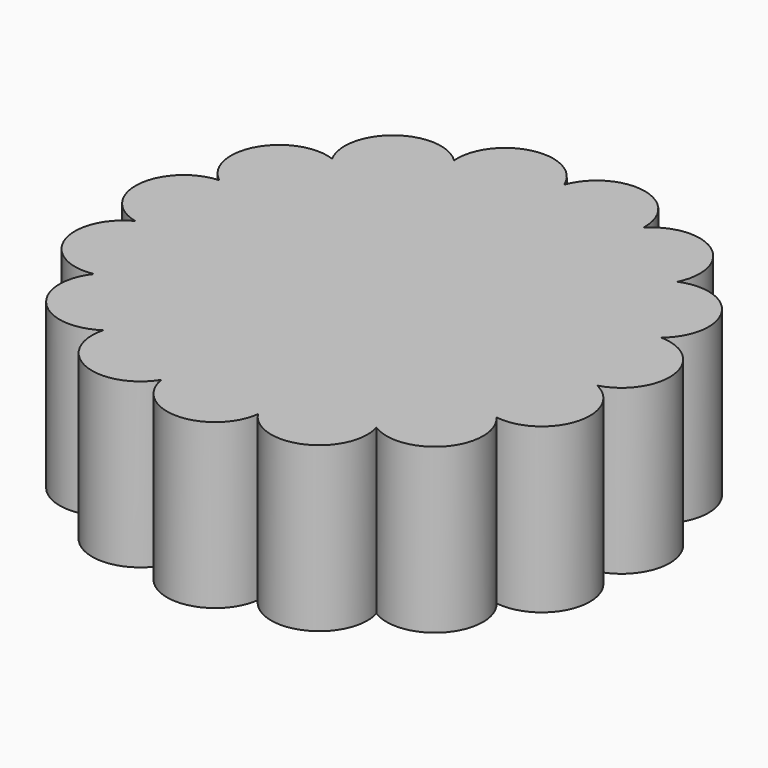
from build123d import *

# Parameters (mm, degrees)
F1_DEPTH = 12
F2_DEPTH = 6
F4_DEPTH = 6
F5_R     = 22.5356386782
F6_DEPTH = 5
F8_DEPTH = 5
F9_DEPTH = 12


with BuildPart() as f1:
    # F0 (on Top) → F1 (new body)
    with BuildSketch(Plane.XY):
        Polygon((-6.8684225896, -21.4634522332), (15.1536835921, -16.6799545631), (22.0221061816, 4.7834976701), (6.8684225896, 21.4634522332), (-15.1536835921, 16.6799545631), (-22.0221061816, -4.7834976701), align=None)
        Polygon((17.1437614944, 2.6631325835), (10.8782212182, -13.5153666788), (-6.2655402762, -16.1784992623), (-17.1437614944, -2.6631325835), (-10.8782212182, 13.5153666788), (6.2655402762, 16.1784992623), align=None, mode=Mode.SUBTRACT)
    extrude(amount=F1_DEPTH)

    # F2 (add): a face of the model
    f2_faces = [f1.faces().sort_by_distance(p)[0] for p in [
        (4.0120820931, -18.4706890138, 12),
    ]]
    extrude(f2_faces, amount=-F2_DEPTH)

    # F3 (on face) → F4 (join)
    with BuildSketch(Plane.XY.offset(12)):
        Polygon((-6.8684225896, -21.4634522332), (15.1536835921, -16.6799545631), (22.0221061816, 4.7834976701), (6.8684225896, 21.4634522332), (-15.1536835921, 16.6799545631), (-22.0221061816, -4.7834976701), align=None)
    extrude(amount=-F4_DEPTH)

    # F5 (on face) → F6 (join)
    with BuildSketch(Plane.XY.offset(12)):
        Circle(F5_R)
    extrude(amount=F6_DEPTH)

    # F7 (on face) → F8 (join, through all)
    with BuildSketch(Plane.XY.offset(17)):
        with BuildLine():
            ThreePointArc((-15.3228461638, 13.3118642514), (-10.7195158187, 13.8841980042), (-8.5676941997, 17.9936845793))
            ThreePointArc((-8.5676941997, 17.9936845793), (-8.571695634, 18.193680409), (-8.5836935324, 18.3933561306))
            ThreePointArc((-8.5836935324, 18.3933561306), (-9.6069182239, 19.842074122), (-10.0600152117, 21.5568556553))
            ThreePointArc((-10.0600152117, 21.5568556553), (-16.5779692563, 21.9859576265), (-17.958244305, 15.6013907485))
            ThreePointArc((-17.958244305, 15.6013907485), (-16.4342353434, 14.6941039842), (-15.3228461638, 13.3118642514))
        make_face()
        with BuildLine():
            ThreePointArc((-10.0600152117, 21.5568556553), (-9.6069182239, 19.842074122), (-8.5836935324, 18.3933561306))
            ThreePointArc((-8.5836935324, 18.3933561306), (-9.0367905202, 20.108137664), (-10.0600152117, 21.5568556553))
        make_face()
        with BuildLine():
            ThreePointArc((-10.0600152117, 21.5568556553), (-9.0367905202, 20.108137664), (-8.5836935324, 18.3933561306))
            ThreePointArc((-8.5836935324, 18.3933561306), (-3.9497951777, 17.0850151275), (-0.3603423089, 20.2944696365))
            ThreePointArc((-0.3603423089, 20.2944696365), (-0.7058578854, 22.034122353), (-0.4223180959, 23.7849443815))
            ThreePointArc((-0.4223180959, 23.7849443815), (-6.2022339112, 26.8280392859), (-10.0600152117, 21.5568556553))
        make_face()
        with BuildLine():
            ThreePointArc((-14.7133962691, 10.9195704206), (-14.86815373, 12.1539223707), (-15.3228461638, 13.3118642514))
            ThreePointArc((-15.3228461638, 13.3118642514), (-16.8468551254, 14.2191510156), (-17.958244305, 15.6013907485))
            ThreePointArc((-17.958244305, 15.6013907485), (-24.0872231108, 13.3423041573), (-22.7513298124, 6.9483036471))
            ThreePointArc((-22.7513298124, 6.9483036471), (-20.9900515753, 6.7393262339), (-19.4125394898, 5.9286301086))
            ThreePointArc((-19.4125394898, 5.9286301086), (-16.0730471171, 7.4920555699), (-14.7133962691, 10.9195704206))
        make_face()
        with BuildLine():
            ThreePointArc((-17.958244305, 15.6013907485), (-16.8468551254, 14.2191510156), (-15.3228461638, 13.3118642514))
            ThreePointArc((-15.3228461638, 13.3118642514), (-16.4342353434, 14.6941039842), (-17.958244305, 15.6013907485))
        make_face()
        with BuildLine():
            ThreePointArc((-0.0760145444, 21.9565272067), (-0.1476090631, 21.1134261386), (-0.3603423089, 20.2944696365))
            ThreePointArc((-0.3603423089, 20.2944696365), (3.3407842567, 17.2144643949), (7.9253153735, 18.6864849728))
            ThreePointArc((7.9253153735, 18.6864849728), (8.3172516941, 20.4162706555), (9.2884016553, 21.9004001446))
            ThreePointArc((9.2884016553, 21.9004001446), (9.2921158652, 22.0116159212), (9.2933541397, 22.1228868113))
            ThreePointArc((9.2933541397, 22.1228868113), (5.1364552078, 27.0512922927), (-0.4223180959, 23.7849443815))
            ThreePointArc((-0.4223180959, 23.7849443815), (-0.163353237, 22.8869888549), (-0.0760145444, 21.9565272067))
        make_face()
        with BuildLine():
            ThreePointArc((-0.4223180959, 23.7849443815), (-0.7058578854, 22.034122353), (-0.3603423089, 20.2944696365))
            ThreePointArc((-0.3603423089, 20.2944696365), (-0.1476090631, 21.1134261386), (-0.0760145444, 21.9565272067))
            ThreePointArc((-0.0760145444, 21.9565272067), (-0.163353237, 22.8869888549), (-0.4223180959, 23.7849443815))
        make_face()
        with BuildLine():
            ThreePointArc((9.2884016553, 21.9004001446), (8.8964653347, 20.1706144619), (7.9253153735, 18.6864849728))
            ThreePointArc((7.9253153735, 18.6864849728), (10.053711743, 14.3673763799), (14.8406140286, 13.8474372958))
            ThreePointArc((14.8406140286, 13.8474372958), (15.9022328957, 15.2682602857), (17.3930723778, 16.2290777639))
            ThreePointArc((17.3930723778, 16.2290777639), (17.7867551587, 17.3158579496), (17.9203628891, 18.4639983061))
            ThreePointArc((17.9203628891, 18.4639983061), (14.7697132927, 23.1094157346), (9.2884016553, 21.9004001446))
        make_face()
        with BuildLine():
            ThreePointArc((9.2884016553, 21.9004001446), (8.3172516941, 20.4162706555), (7.9253153735, 18.6864849728))
            ThreePointArc((7.9253153735, 18.6864849728), (8.8964653347, 20.1706144619), (9.2884016553, 21.9004001446))
        make_face()
        with BuildLine():
            ThreePointArc((-19.4125394898, 5.9286301086), (-20.9900515753, 6.7393262339), (-22.7513298124, 6.9483036471))
            ThreePointArc((-22.7513298124, 6.9483036471), (-21.1738177269, 6.1376075218), (-19.4125394898, 5.9286301086))
        make_face()
        with BuildLine():
            ThreePointArc((-19.4125394898, 5.9286301086), (-21.1738177269, 6.1376075218), (-22.7513298124, 6.9483036471))
            ThreePointArc((-22.7513298124, 6.9483036471), (-27.4315772639, 2.3916450882), (-23.6105037059, -2.9062082783))
            ThreePointArc((-23.6105037059, -2.9062082783), (-21.9164972013, -2.3807422472), (-20.1456283806, -2.4797180399))
            ThreePointArc((-20.1456283806, -2.4797180399), (-18.1770538363, -0.6383809453), (-17.4504730331, 1.957363335))
            ThreePointArc((-17.4504730331, 1.957363335), (-17.9677468694, 4.1721243022), (-19.4125394898, 5.9286301086))
        make_face()
        with BuildLine():
            ThreePointArc((17.3930723778, 16.2290777639), (16.3314535106, 14.8082547741), (14.8406140286, 13.8474372958))
            ThreePointArc((14.8406140286, 13.8474372958), (15.0282611338, 9.0360384653), (19.1898356953, 6.6140419105))
            ThreePointArc((19.1898356953, 6.6140419105), (20.7375735625, 7.4802290047), (22.4903228751, 7.7516004012))
            ThreePointArc((22.4903228751, 7.7516004012), (23.8346616371, 9.4776861736), (24.3133235172, 11.6125167536))
            ThreePointArc((24.3133235172, 11.6125167536), (22.0880977695, 15.7719190963), (17.3930723778, 16.2290777639))
        make_face()
        with BuildLine():
            ThreePointArc((17.3930723778, 16.2290777639), (15.9022328957, 15.2682602857), (14.8406140286, 13.8474372958))
            ThreePointArc((14.8406140286, 13.8474372958), (16.3314535106, 14.8082547741), (17.3930723778, 16.2290777639))
        make_face()
        with BuildLine():
            ThreePointArc((-20.1456283806, -2.4797180399), (-21.9164972013, -2.3807422472), (-23.6105037059, -2.9062082783))
            ThreePointArc((-23.6105037059, -2.9062082783), (-21.8396348852, -3.005184071), (-20.1456283806, -2.4797180399))
        make_face()
        with BuildLine():
            ThreePointArc((-20.1456283806, -2.4797180399), (-21.8396348852, -3.005184071), (-23.6105037059, -2.9062082783))
            ThreePointArc((-23.6105037059, -2.9062082783), (-26.0327625001, -8.972551144), (-20.387207014, -12.2582103903))
            ThreePointArc((-20.387207014, -12.2582103903), (-19.053381356, -11.0891587654), (-17.3953551071, -10.4593004118))
            ThreePointArc((-17.3953551071, -10.4593004118), (-16.585938737, -8.9938168824), (-16.3056590535, -7.3432896533))
            ThreePointArc((-16.3056590535, -7.3432896533), (-17.3813659092, -4.2449153509), (-20.1456283806, -2.4797180399))
        make_face()
        with BuildLine():
            ThreePointArc((22.4903228751, 7.7516004012), (20.9425850079, 6.885413307), (19.1898356953, 6.6140419105))
            ThreePointArc((19.1898356953, 6.6140419105), (17.4042876471, 2.1422874102), (20.2209604362, -1.7629814079))
            ThreePointArc((20.2209604362, -1.7629814079), (21.9871993653, -1.601201827), (23.6987922291, -2.0661990919))
            ThreePointArc((23.6987922291, -2.0661990919), (26.3455148518, -0.275092905), (27.3668350532, 2.753125558))
            ThreePointArc((27.3668350532, 2.753125558), (25.9457622045, 6.2447269736), (22.4903228751, 7.7516004012))
        make_face()
        with BuildLine():
            ThreePointArc((22.4903228751, 7.7516004012), (20.7375735625, 7.4802290047), (19.1898356953, 6.6140419105))
            ThreePointArc((19.1898356953, 6.6140419105), (20.9425850079, 6.885413307), (22.4903228751, 7.7516004012))
        make_face()
        with BuildLine():
            ThreePointArc((-17.3953551071, -10.4593004118), (-19.053381356, -11.0891587654), (-20.387207014, -12.2582103903))
            ThreePointArc((-20.387207014, -12.2582103903), (-18.7291807651, -11.6283520367), (-17.3953551071, -10.4593004118))
        make_face()
        with BuildLine():
            ThreePointArc((-17.3953551071, -10.4593004118), (-18.7291807651, -11.6283520367), (-20.387207014, -12.2582103903))
            ThreePointArc((-20.387207014, -12.2582103903), (-20.1326465997, -18.7853117703), (-13.6387770174, -19.4906565634))
            ThreePointArc((-13.6387770174, -19.4906565634), (-12.8957627797, -17.8801589912), (-11.6372669038, -16.6303747227))
            ThreePointArc((-11.6372669038, -16.6303747227), (-11.517156057, -16.0073953668), (-11.4769030677, -15.3742211488))
            ThreePointArc((-11.4769030677, -15.3742211488), (-13.282553384, -11.5276473358), (-17.3953551071, -10.4593004118))
        make_face()
        with BuildLine():
            ThreePointArc((23.6987922291, -2.0661990919), (21.9325532999, -2.2279786728), (20.2209604362, -1.7629814079))
            ThreePointArc((20.2209604362, -1.7629814079), (16.7709547133, -5.1218846001), (17.755697416, -9.8351692247))
            ThreePointArc((17.755697416, -9.8351692247), (19.4350386505, -10.4057703163), (20.8095251099, -11.5267339912))
            ThreePointArc((20.8095251099, -11.5267339912), (24.8150516904, -10.3715647262), (26.5529176121, -6.5823060579))
            ThreePointArc((26.5529176121, -6.5823060579), (25.7795813724, -3.9111053059), (23.6987922291, -2.0661990919))
        make_face()
        with BuildLine():
            ThreePointArc((23.6987922291, -2.0661990919), (21.9871993653, -1.601201827), (20.2209604362, -1.7629814079))
            ThreePointArc((20.2209604362, -1.7629814079), (21.9325532999, -2.2279786728), (23.6987922291, -2.0661990919))
        make_face()
        with BuildLine():
            ThreePointArc((-11.6372669038, -16.6303747227), (-12.8957627797, -17.8801589912), (-13.6387770174, -19.4906565634))
            ThreePointArc((-13.6387770174, -19.4906565634), (-12.3802811414, -18.2408722949), (-11.6372669038, -16.6303747227))
        make_face()
        with BuildLine():
            ThreePointArc((-11.6372669038, -16.6303747227), (-12.3802811414, -18.2408722949), (-13.6387770174, -19.4906565634))
            ThreePointArc((-13.6387770174, -19.4906565634), (-10.7514132029, -25.3499213323), (-4.5320785701, -23.3529911497))
            ThreePointArc((-4.5320785701, -23.3529911497), (-4.5083496645, -21.5795172913), (-3.8669895315, -19.9259061618))
            ThreePointArc((-3.8669895315, -19.9259061618), (-6.8468685041, -16.1436989423), (-11.6372669038, -16.6303747227))
        make_face()
        with BuildLine():
            ThreePointArc((20.8095251099, -11.5267339912), (19.1301838754, -10.9561328996), (17.755697416, -9.8351692247))
            ThreePointArc((17.755697416, -9.8351692247), (13.2377713502, -11.5004362323), (12.2203130071, -16.2067669328))
            ThreePointArc((12.2203130071, -16.2067669328), (13.5223831912, -17.4110865845), (14.3221020507, -18.9941918663))
            ThreePointArc((14.3221020507, -18.9941918663), (19.4153223591, -19.1642872449), (22.0123049138, -14.779597158))
            ThreePointArc((22.0123049138, -14.779597158), (21.7019797949, -13.0455413603), (20.8095251099, -11.5267339912))
        make_face()
        with BuildLine():
            ThreePointArc((20.8095251099, -11.5267339912), (19.4350386505, -10.4057703163), (17.755697416, -9.8351692247))
            ThreePointArc((17.755697416, -9.8351692247), (19.1301838754, -10.9561328996), (20.8095251099, -11.5267339912))
        make_face()
        with BuildLine():
            ThreePointArc((-3.8669895315, -19.9259061618), (-4.5083496645, -21.5795172913), (-4.5320785701, -23.3529911497))
            ThreePointArc((-4.5320785701, -23.3529911497), (-3.985861752, -22.1004512609), (-3.7991408535, -20.7468101373))
            ThreePointArc((-3.7991408535, -20.7468101373), (-3.8161318925, -20.3349585924), (-3.8669895315, -19.9259061618))
        make_face()
        with BuildLine():
            ThreePointArc((-3.7991408535, -20.7468101373), (-3.985861752, -22.1004512609), (-4.5320785701, -23.3529911497))
            ThreePointArc((-4.5320785701, -23.3529911497), (0.4888372102, -27.5312991992), (5.3582574346, -23.1773814109))
            ThreePointArc((5.3582574346, -23.1773814109), (4.6585980648, -21.5475810079), (4.5719254612, -19.7760674044))
            ThreePointArc((4.5719254612, -19.7760674044), (0.3113082936, -17.5328751492), (-3.8669895315, -19.9259061618))
            ThreePointArc((-3.8669895315, -19.9259061618), (-3.8161318925, -20.3349585924), (-3.7991408535, -20.7468101373))
        make_face()
        with BuildLine():
            ThreePointArc((14.3221020507, -18.9941918663), (13.0200318666, -17.7898722147), (12.2203130071, -16.2067669328))
            ThreePointArc((12.2203130071, -16.2067669328), (7.4156570592, -15.8904579617), (4.5719254612, -19.7760674044))
            ThreePointArc((4.5719254612, -19.7760674044), (5.1885622604, -21.0932097553), (5.4000727519, -22.5320871742))
            ThreePointArc((5.4000727519, -22.5320871742), (5.3896079714, -22.8554109952), (5.3582574346, -23.1773814109))
            ThreePointArc((5.3582574346, -23.1773814109), (10.9689875629, -25.2098511497), (14.530110144, -20.4213616411))
            ThreePointArc((14.530110144, -20.4213616411), (14.47783485, -19.7002373569), (14.3221020507, -18.9941918663))
        make_face()
        with BuildLine():
            ThreePointArc((14.3221020507, -18.9941918663), (13.5223831912, -17.4110865845), (12.2203130071, -16.2067669328))
            ThreePointArc((12.2203130071, -16.2067669328), (13.0200318666, -17.7898722147), (14.3221020507, -18.9941918663))
        make_face()
        with BuildLine():
            ThreePointArc((4.5719254612, -19.7760674044), (4.6585980648, -21.5475810079), (5.3582574346, -23.1773814109))
            ThreePointArc((5.3582574346, -23.1773814109), (5.3896079714, -22.8554109952), (5.4000727519, -22.5320871742))
            ThreePointArc((5.4000727519, -22.5320871742), (5.1885622604, -21.0932097553), (4.5719254612, -19.7760674044))
        make_face()
    extrude(amount=-F8_DEPTH)

    # F9 (add, through all): a face of the model
    f9_faces = [f1.faces().sort_by_distance(p)[0] for p in [
        (19.3251526539, -6.1841549809, 12),
    ]]
    extrude(f9_faces, amount=F9_DEPTH)


solid = f1.part
